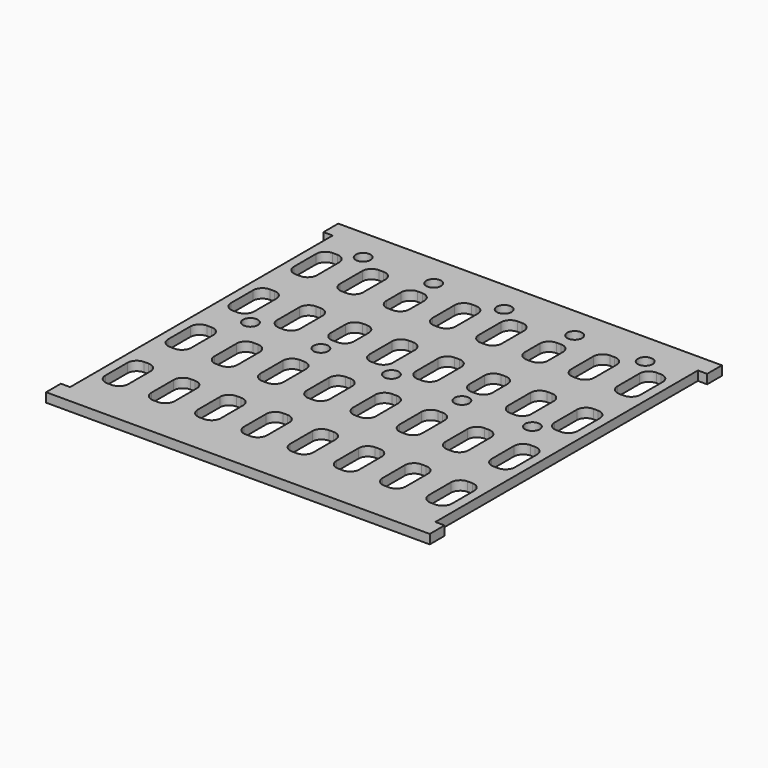
from build123d import *

# Parameters (mm, degrees)
F0_R     = 1.6
F1_DEPTH = 2


with BuildPart() as f1:
    # F0 (on Top) → F1 (new body)
    with BuildSketch(Plane.XY):
        Polygon((41.5, 39.5), (39.5, 39.5), (-39.5, 39.5), (-41.5, 39.5), (-41.5, 35.5), (-39.5, 35.5), (-39.5, -35.5), (-41.5, -35.5), (-41.5, -39.5), (-39.5, -39.5), (39.5, -39.5), (41.5, -39.5), (41.5, -35.5), (39.5, -35.5), (39.5, 35.5), (41.5, 35.5), align=None)
        with BuildLine():
            Line((-37.5, -28.5), (-37.5, -22.5))
            ThreePointArc((-37.5, -22.5), (-36.914214, -21.085786), (-35.5, -20.5))
            Line((-35.5, -20.5), (-34.5, -20.5))
            ThreePointArc((-34.5, -20.5), (-33.085786, -21.085786), (-32.5, -22.5))
            Line((-32.5, -22.5), (-32.5, -28.5))
            ThreePointArc((-32.5, -28.5), (-33.085786, -29.914214), (-34.5, -30.5))
            Line((-34.5, -30.5), (-35.5, -30.5))
            ThreePointArc((-35.5, -30.5), (-36.914214, -29.914214), (-37.5, -28.5))
        make_face(mode=Mode.SUBTRACT)
        with BuildLine():
            Line((-27.5, -28.5), (-27.5, -22.5))
            ThreePointArc((-27.5, -22.5), (-26.914214, -21.085786), (-25.5, -20.5))
            Line((-25.5, -20.5), (-24.5, -20.5))
            ThreePointArc((-24.5, -20.5), (-23.085786, -21.085786), (-22.5, -22.5))
            Line((-22.5, -22.5), (-22.5, -28.5))
            ThreePointArc((-22.5, -28.5), (-23.085786, -29.914214), (-24.5, -30.5))
            Line((-24.5, -30.5), (-25.5, -30.5))
            ThreePointArc((-25.5, -30.5), (-26.914214, -29.914214), (-27.5, -28.5))
        make_face(mode=Mode.SUBTRACT)
        with BuildLine():
            Line((-17.5, -28.5), (-17.5, -22.5))
            ThreePointArc((-17.5, -22.5), (-16.914214, -21.085786), (-15.5, -20.5))
            Line((-15.5, -20.5), (-14.5, -20.5))
            ThreePointArc((-14.5, -20.5), (-13.085786, -21.085786), (-12.5, -22.5))
            Line((-12.5, -22.5), (-12.5, -28.5))
            ThreePointArc((-12.5, -28.5), (-13.085786, -29.914214), (-14.5, -30.5))
            Line((-14.5, -30.5), (-15.5, -30.5))
            ThreePointArc((-15.5, -30.5), (-16.914214, -29.914214), (-17.5, -28.5))
        make_face(mode=Mode.SUBTRACT)
        with BuildLine():
            Line((-7.5, -28.5), (-7.5, -22.5))
            ThreePointArc((-7.5, -22.5), (-6.914214, -21.085786), (-5.5, -20.5))
            Line((-5.5, -20.5), (-4.5, -20.5))
            ThreePointArc((-4.5, -20.5), (-3.085786, -21.085786), (-2.5, -22.5))
            Line((-2.5, -22.5), (-2.5, -28.5))
            ThreePointArc((-2.5, -28.5), (-3.085786, -29.914214), (-4.5, -30.5))
            Line((-4.5, -30.5), (-5.5, -30.5))
            ThreePointArc((-5.5, -30.5), (-6.914214, -29.914214), (-7.5, -28.5))
        make_face(mode=Mode.SUBTRACT)
        with BuildLine():
            Line((-37.5, -11.5), (-37.5, -5.5))
            ThreePointArc((-37.5, -5.5), (-36.914214, -4.085786), (-35.5, -3.5))
            Line((-35.5, -3.5), (-34.5, -3.5))
            ThreePointArc((-34.5, -3.5), (-33.085786, -4.085786), (-32.5, -5.5))
            Line((-32.5, -5.5), (-32.5, -11.5))
            ThreePointArc((-32.5, -11.5), (-33.085786, -12.914214), (-34.5, -13.5))
            Line((-34.5, -13.5), (-35.5, -13.5))
            ThreePointArc((-35.5, -13.5), (-36.914214, -12.914214), (-37.5, -11.5))
        make_face(mode=Mode.SUBTRACT)
        with BuildLine():
            Line((-27.5, -11.5), (-27.5, -5.5))
            ThreePointArc((-27.5, -5.5), (-26.914214, -4.085786), (-25.5, -3.5))
            Line((-25.5, -3.5), (-24.5, -3.5))
            ThreePointArc((-24.5, -3.5), (-23.085786, -4.085786), (-22.5, -5.5))
            Line((-22.5, -5.5), (-22.5, -11.5))
            ThreePointArc((-22.5, -11.5), (-23.085786, -12.914214), (-24.5, -13.5))
            Line((-24.5, -13.5), (-25.5, -13.5))
            ThreePointArc((-25.5, -13.5), (-26.914214, -12.914214), (-27.5, -11.5))
        make_face(mode=Mode.SUBTRACT)
        with BuildLine():
            Line((-17.5, -11.5), (-17.5, -5.5))
            ThreePointArc((-17.5, -5.5), (-16.914214, -4.085786), (-15.5, -3.5))
            Line((-15.5, -3.5), (-14.5, -3.5))
            ThreePointArc((-14.5, -3.5), (-13.085786, -4.085786), (-12.5, -5.5))
            Line((-12.5, -5.5), (-12.5, -11.5))
            ThreePointArc((-12.5, -11.5), (-13.085786, -12.914214), (-14.5, -13.5))
            Line((-14.5, -13.5), (-15.5, -13.5))
            ThreePointArc((-15.5, -13.5), (-16.914214, -12.914214), (-17.5, -11.5))
        make_face(mode=Mode.SUBTRACT)
        with BuildLine():
            ThreePointArc((-7.5, -5.5), (-6.914214, -4.085786), (-5.5, -3.5))
            Line((-5.5, -3.5), (-4.5, -3.5))
            ThreePointArc((-4.5, -3.5), (-3.085786, -4.085786), (-2.5, -5.5))
            Line((-2.5, -5.5), (-2.5, -11.5))
            ThreePointArc((-2.5, -11.5), (-3.085786, -12.914214), (-4.5, -13.5))
            Line((-4.5, -13.5), (-5.5, -13.5))
            ThreePointArc((-5.5, -13.5), (-6.914214, -12.914214), (-7.5, -11.5))
            Line((-7.5, -11.5), (-7.5, -5.5))
        make_face(mode=Mode.SUBTRACT)
        with BuildLine():
            ThreePointArc((5.5, -20.5), (6.914214, -21.085786), (7.5, -22.5))
            Line((7.5, -22.5), (7.5, -28.5))
            ThreePointArc((7.5, -28.5), (6.914214, -29.914214), (5.5, -30.5))
            Line((5.5, -30.5), (4.5, -30.5))
            ThreePointArc((4.5, -30.5), (3.085786, -29.914214), (2.5, -28.5))
            Line((2.5, -28.5), (2.5, -22.5))
            ThreePointArc((2.5, -22.5), (3.085786, -21.085786), (4.5, -20.5))
            Line((4.5, -20.5), (5.5, -20.5))
        make_face(mode=Mode.SUBTRACT)
        with BuildLine():
            ThreePointArc((15.5, -20.5), (16.914214, -21.085786), (17.5, -22.5))
            Line((17.5, -22.5), (17.5, -28.5))
            ThreePointArc((17.5, -28.5), (16.914214, -29.914214), (15.5, -30.5))
            Line((15.5, -30.5), (14.5, -30.5))
            ThreePointArc((14.5, -30.5), (13.085786, -29.914214), (12.5, -28.5))
            Line((12.5, -28.5), (12.5, -22.5))
            ThreePointArc((12.5, -22.5), (13.085786, -21.085786), (14.5, -20.5))
            Line((14.5, -20.5), (15.5, -20.5))
        make_face(mode=Mode.SUBTRACT)
        with BuildLine():
            ThreePointArc((25.5, -20.5), (26.914214, -21.085786), (27.5, -22.5))
            Line((27.5, -22.5), (27.5, -28.5))
            ThreePointArc((27.5, -28.5), (26.914214, -29.914214), (25.5, -30.5))
            Line((25.5, -30.5), (24.5, -30.5))
            ThreePointArc((24.5, -30.5), (23.085786, -29.914214), (22.5, -28.5))
            Line((22.5, -28.5), (22.5, -22.5))
            ThreePointArc((22.5, -22.5), (23.085786, -21.085786), (24.5, -20.5))
            Line((24.5, -20.5), (25.5, -20.5))
        make_face(mode=Mode.SUBTRACT)
        with BuildLine():
            ThreePointArc((35.5, -20.5), (36.914214, -21.085786), (37.5, -22.5))
            Line((37.5, -22.5), (37.5, -28.5))
            ThreePointArc((37.5, -28.5), (36.914214, -29.914214), (35.5, -30.5))
            Line((35.5, -30.5), (34.5, -30.5))
            ThreePointArc((34.5, -30.5), (33.085786, -29.914214), (32.5, -28.5))
            Line((32.5, -28.5), (32.5, -22.5))
            ThreePointArc((32.5, -22.5), (33.085786, -21.085786), (34.5, -20.5))
            Line((34.5, -20.5), (35.5, -20.5))
        make_face(mode=Mode.SUBTRACT)
        with BuildLine():
            Line((2.5, -11.5), (2.5, -5.5))
            ThreePointArc((2.5, -5.5), (3.085786, -4.085786), (4.5, -3.5))
            Line((4.5, -3.5), (5.5, -3.5))
            ThreePointArc((5.5, -3.5), (6.914214, -4.085786), (7.5, -5.5))
            Line((7.5, -5.5), (7.5, -11.5))
            ThreePointArc((7.5, -11.5), (6.914214, -12.914214), (5.5, -13.5))
            Line((5.5, -13.5), (4.5, -13.5))
            ThreePointArc((4.5, -13.5), (3.085786, -12.914214), (2.5, -11.5))
        make_face(mode=Mode.SUBTRACT)
        with BuildLine():
            Line((12.5, -11.5), (12.5, -5.5))
            ThreePointArc((12.5, -5.5), (13.085786, -4.085786), (14.5, -3.5))
            Line((14.5, -3.5), (15.5, -3.5))
            ThreePointArc((15.5, -3.5), (16.914214, -4.085786), (17.5, -5.5))
            Line((17.5, -5.5), (17.5, -11.5))
            ThreePointArc((17.5, -11.5), (16.914214, -12.914214), (15.5, -13.5))
            Line((15.5, -13.5), (14.5, -13.5))
            ThreePointArc((14.5, -13.5), (13.085786, -12.914214), (12.5, -11.5))
        make_face(mode=Mode.SUBTRACT)
        with BuildLine():
            ThreePointArc((25.5, -3.5), (26.914214, -4.085786), (27.5, -5.5))
            Line((27.5, -5.5), (27.5, -11.5))
            ThreePointArc((27.5, -11.5), (26.914214, -12.914214), (25.5, -13.5))
            Line((25.5, -13.5), (24.5, -13.5))
            ThreePointArc((24.5, -13.5), (23.085786, -12.914214), (22.5, -11.5))
            Line((22.5, -11.5), (22.5, -5.5))
            ThreePointArc((22.5, -5.5), (23.085786, -4.085786), (24.5, -3.5))
            Line((24.5, -3.5), (25.5, -3.5))
        make_face(mode=Mode.SUBTRACT)
        with BuildLine():
            ThreePointArc((35.5, -3.5), (36.914214, -4.085786), (37.5, -5.5))
            Line((37.5, -5.5), (37.5, -11.5))
            ThreePointArc((37.5, -11.5), (36.914214, -12.914214), (35.5, -13.5))
            Line((35.5, -13.5), (34.5, -13.5))
            ThreePointArc((34.5, -13.5), (33.085786, -12.914214), (32.5, -11.5))
            Line((32.5, -11.5), (32.5, -5.5))
            ThreePointArc((32.5, -5.5), (33.085786, -4.085786), (34.5, -3.5))
            Line((34.5, -3.5), (35.5, -3.5))
        make_face(mode=Mode.SUBTRACT)
        with BuildLine():
            ThreePointArc((-34.5, 13.5), (-33.085786, 12.914214), (-32.5, 11.5))
            Line((-32.5, 11.5), (-32.5, 5.5))
            ThreePointArc((-32.5, 5.5), (-33.085786, 4.085786), (-34.5, 3.5))
            Line((-34.5, 3.5), (-35.5, 3.5))
            ThreePointArc((-35.5, 3.5), (-36.914214, 4.085786), (-37.5, 5.5))
            Line((-37.5, 5.5), (-37.5, 11.5))
            ThreePointArc((-37.5, 11.5), (-36.914214, 12.914214), (-35.5, 13.5))
            Line((-35.5, 13.5), (-34.5, 13.5))
        make_face(mode=Mode.SUBTRACT)
        with Locations((-30.5, 2)):
            Circle(F0_R, mode=Mode.SUBTRACT)
        with BuildLine():
            ThreePointArc((-24.5, 13.5), (-23.085786, 12.914214), (-22.5, 11.5))
            Line((-22.5, 11.5), (-22.5, 5.5))
            ThreePointArc((-22.5, 5.5), (-23.085786, 4.085786), (-24.5, 3.5))
            Line((-24.5, 3.5), (-25.5, 3.5))
            ThreePointArc((-25.5, 3.5), (-26.914214, 4.085786), (-27.5, 5.5))
            Line((-27.5, 5.5), (-27.5, 11.5))
            ThreePointArc((-27.5, 11.5), (-26.914214, 12.914214), (-25.5, 13.5))
            Line((-25.5, 13.5), (-24.5, 13.5))
        make_face(mode=Mode.SUBTRACT)
        with Locations((-15.25, 2)):
            Circle(F0_R, mode=Mode.SUBTRACT)
        with BuildLine():
            ThreePointArc((-14.5, 13.5), (-13.085786, 12.914214), (-12.5, 11.5))
            Line((-12.5, 11.5), (-12.5, 7.5))
            ThreePointArc((-12.5, 7.5), (-13.085786, 6.085786), (-14.5, 5.5))
            Line((-14.5, 5.5), (-15.5, 5.5))
            ThreePointArc((-15.5, 5.5), (-16.914214, 6.085786), (-17.5, 7.5))
            Line((-17.5, 7.5), (-17.5, 11.5))
            ThreePointArc((-17.5, 11.5), (-16.914214, 12.914214), (-15.5, 13.5))
            Line((-15.5, 13.5), (-14.5, 13.5))
        make_face(mode=Mode.SUBTRACT)
        with BuildLine():
            ThreePointArc((-4.5, 13.5), (-3.085786, 12.914214), (-2.5, 11.5))
            Line((-2.5, 11.5), (-2.5, 5.5))
            ThreePointArc((-2.5, 5.5), (-3.085786, 4.085786), (-4.5, 3.5))
            Line((-4.5, 3.5), (-5.5, 3.5))
            ThreePointArc((-5.5, 3.5), (-6.914214, 4.085786), (-7.5, 5.5))
            Line((-7.5, 5.5), (-7.5, 11.5))
            ThreePointArc((-7.5, 11.5), (-6.914214, 12.914214), (-5.5, 13.5))
            Line((-5.5, 13.5), (-4.5, 13.5))
        make_face(mode=Mode.SUBTRACT)
        with BuildLine():
            Line((-37.5, 22.5), (-37.5, 28.5))
            ThreePointArc((-37.5, 28.5), (-36.914214, 29.914214), (-35.5, 30.5))
            Line((-35.5, 30.5), (-34.5, 30.5))
            ThreePointArc((-34.5, 30.5), (-33.085786, 29.914214), (-32.5, 28.5))
            Line((-32.5, 28.5), (-32.5, 22.5))
            ThreePointArc((-32.5, 22.5), (-33.085786, 21.085786), (-34.5, 20.5))
            Line((-34.5, 20.5), (-35.5, 20.5))
            ThreePointArc((-35.5, 20.5), (-36.914214, 21.085786), (-37.5, 22.5))
        make_face(mode=Mode.SUBTRACT)
        with BuildLine():
            Line((-27.5, 22.5), (-27.5, 28.5))
            ThreePointArc((-27.5, 28.5), (-26.914214, 29.914214), (-25.5, 30.5))
            Line((-25.5, 30.5), (-24.5, 30.5))
            ThreePointArc((-24.5, 30.5), (-23.085786, 29.914214), (-22.5, 28.5))
            Line((-22.5, 28.5), (-22.5, 22.5))
            ThreePointArc((-22.5, 22.5), (-23.085786, 21.085786), (-24.5, 20.5))
            Line((-24.5, 20.5), (-25.5, 20.5))
            ThreePointArc((-25.5, 20.5), (-26.914214, 21.085786), (-27.5, 22.5))
        make_face(mode=Mode.SUBTRACT)
        with Locations((-30.5, 32.5)):
            Circle(F0_R, mode=Mode.SUBTRACT)
        with BuildLine():
            ThreePointArc((-14.5, 28.5), (-13.085786, 27.914214), (-12.5, 26.5))
            Line((-12.5, 26.5), (-12.5, 22.5))
            ThreePointArc((-12.5, 22.5), (-13.085786, 21.085786), (-14.5, 20.5))
            Line((-14.5, 20.5), (-15.5, 20.5))
            ThreePointArc((-15.5, 20.5), (-16.914214, 21.085786), (-17.5, 22.5))
            Line((-17.5, 22.5), (-17.5, 26.5))
            ThreePointArc((-17.5, 26.5), (-16.914214, 27.914214), (-15.5, 28.5))
            Line((-15.5, 28.5), (-14.5, 28.5))
        make_face(mode=Mode.SUBTRACT)
        with BuildLine():
            ThreePointArc((-4.5, 30.5), (-3.085786, 29.914214), (-2.5, 28.5))
            Line((-2.5, 28.5), (-2.5, 22.5))
            ThreePointArc((-2.5, 22.5), (-3.085786, 21.085786), (-4.5, 20.5))
            Line((-4.5, 20.5), (-5.5, 20.5))
            ThreePointArc((-5.5, 20.5), (-6.914214, 21.085786), (-7.5, 22.5))
            Line((-7.5, 22.5), (-7.5, 28.5))
            ThreePointArc((-7.5, 28.5), (-6.914214, 29.914214), (-5.5, 30.5))
            Line((-5.5, 30.5), (-4.5, 30.5))
        make_face(mode=Mode.SUBTRACT)
        with Locations((-15.25, 32.5)):
            Circle(F0_R, mode=Mode.SUBTRACT)
        with Locations((0, 2)):
            Circle(F0_R, mode=Mode.SUBTRACT)
        with BuildLine():
            ThreePointArc((5.5, 13.5), (6.914214, 12.914214), (7.5, 11.5))
            Line((7.5, 11.5), (7.5, 5.5))
            ThreePointArc((7.5, 5.5), (6.914214, 4.085786), (5.5, 3.5))
            Line((5.5, 3.5), (4.5, 3.5))
            ThreePointArc((4.5, 3.5), (3.085786, 4.085786), (2.5, 5.5))
            Line((2.5, 5.5), (2.5, 11.5))
            ThreePointArc((2.5, 11.5), (3.085786, 12.914214), (4.5, 13.5))
            Line((4.5, 13.5), (5.5, 13.5))
        make_face(mode=Mode.SUBTRACT)
        with Locations((15.25, 2)):
            Circle(F0_R, mode=Mode.SUBTRACT)
        with BuildLine():
            ThreePointArc((15.5, 13.5), (16.914214, 12.914214), (17.5, 11.5))
            Line((17.5, 11.5), (17.5, 7.5))
            ThreePointArc((17.5, 7.5), (16.914214, 6.085786), (15.5, 5.5))
            Line((15.5, 5.5), (14.5, 5.5))
            ThreePointArc((14.5, 5.5), (13.085786, 6.085786), (12.5, 7.5))
            Line((12.5, 7.5), (12.5, 11.5))
            ThreePointArc((12.5, 11.5), (13.085786, 12.914214), (14.5, 13.5))
            Line((14.5, 13.5), (15.5, 13.5))
        make_face(mode=Mode.SUBTRACT)
        with Locations((30.5, 2)):
            Circle(F0_R, mode=Mode.SUBTRACT)
        with BuildLine():
            ThreePointArc((25.5, 13.5), (26.914214, 12.914214), (27.5, 11.5))
            Line((27.5, 11.5), (27.5, 5.5))
            ThreePointArc((27.5, 5.5), (26.914214, 4.085786), (25.5, 3.5))
            Line((25.5, 3.5), (24.5, 3.5))
            ThreePointArc((24.5, 3.5), (23.085786, 4.085786), (22.5, 5.5))
            Line((22.5, 5.5), (22.5, 11.5))
            ThreePointArc((22.5, 11.5), (23.085786, 12.914214), (24.5, 13.5))
            Line((24.5, 13.5), (25.5, 13.5))
        make_face(mode=Mode.SUBTRACT)
        with BuildLine():
            ThreePointArc((35.5, 13.5), (36.914214, 12.914214), (37.5, 11.5))
            Line((37.5, 11.5), (37.5, 5.5))
            ThreePointArc((37.5, 5.5), (36.914214, 4.085786), (35.5, 3.5))
            Line((35.5, 3.5), (34.5, 3.5))
            ThreePointArc((34.5, 3.5), (33.085786, 4.085786), (32.5, 5.5))
            Line((32.5, 5.5), (32.5, 11.5))
            ThreePointArc((32.5, 11.5), (33.085786, 12.914214), (34.5, 13.5))
            Line((34.5, 13.5), (35.5, 13.5))
        make_face(mode=Mode.SUBTRACT)
        with BuildLine():
            Line((2.5, 22.5), (2.5, 28.5))
            ThreePointArc((2.5, 28.5), (3.085786, 29.914214), (4.5, 30.5))
            Line((4.5, 30.5), (5.5, 30.5))
            ThreePointArc((5.5, 30.5), (6.914214, 29.914214), (7.5, 28.5))
            Line((7.5, 28.5), (7.5, 22.5))
            ThreePointArc((7.5, 22.5), (6.914214, 21.085786), (5.5, 20.5))
            Line((5.5, 20.5), (4.5, 20.5))
            ThreePointArc((4.5, 20.5), (3.085786, 21.085786), (2.5, 22.5))
        make_face(mode=Mode.SUBTRACT)
        with BuildLine():
            Line((12.5, 22.5), (12.5, 26.5))
            ThreePointArc((12.5, 26.5), (13.085786, 27.914214), (14.5, 28.5))
            Line((14.5, 28.5), (15.5, 28.5))
            ThreePointArc((15.5, 28.5), (16.914214, 27.914214), (17.5, 26.5))
            Line((17.5, 26.5), (17.5, 22.5))
            ThreePointArc((17.5, 22.5), (16.914214, 21.085786), (15.5, 20.5))
            Line((15.5, 20.5), (14.5, 20.5))
            ThreePointArc((14.5, 20.5), (13.085786, 21.085786), (12.5, 22.5))
        make_face(mode=Mode.SUBTRACT)
        with Locations((0, 32.5)):
            Circle(F0_R, mode=Mode.SUBTRACT)
        with Locations((15.25, 32.5)):
            Circle(F0_R, mode=Mode.SUBTRACT)
        with BuildLine():
            ThreePointArc((25.5, 30.5), (26.914214, 29.914214), (27.5, 28.5))
            Line((27.5, 28.5), (27.5, 22.5))
            ThreePointArc((27.5, 22.5), (26.914214, 21.085786), (25.5, 20.5))
            Line((25.5, 20.5), (24.5, 20.5))
            ThreePointArc((24.5, 20.5), (23.085786, 21.085786), (22.5, 22.5))
            Line((22.5, 22.5), (22.5, 28.5))
            ThreePointArc((22.5, 28.5), (23.085786, 29.914214), (24.5, 30.5))
            Line((24.5, 30.5), (25.5, 30.5))
        make_face(mode=Mode.SUBTRACT)
        with BuildLine():
            ThreePointArc((35.5, 30.5), (36.914214, 29.914214), (37.5, 28.5))
            Line((37.5, 28.5), (37.5, 22.5))
            ThreePointArc((37.5, 22.5), (36.914214, 21.085786), (35.5, 20.5))
            Line((35.5, 20.5), (34.5, 20.5))
            ThreePointArc((34.5, 20.5), (33.085786, 21.085786), (32.5, 22.5))
            Line((32.5, 22.5), (32.5, 28.5))
            ThreePointArc((32.5, 28.5), (33.085786, 29.914214), (34.5, 30.5))
            Line((34.5, 30.5), (35.5, 30.5))
        make_face(mode=Mode.SUBTRACT)
        with Locations((30.5, 32.5)):
            Circle(F0_R, mode=Mode.SUBTRACT)
    extrude(amount=F1_DEPTH)


solid = f1.part
